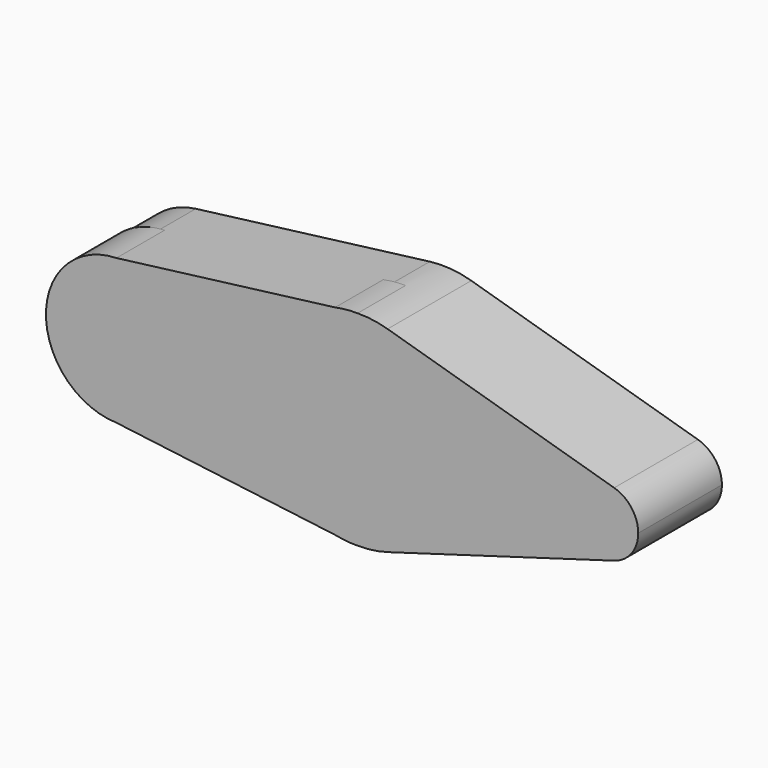
from build123d import *

# Parameters (mm, degrees)
F0_R     = 5.117058
F0_R_2   = 18.848799
F0_R_3   = 9.024126
F1_DEPTH = 30
F6_DEPTH = 10.785379
F2_R     = 20.800257
F2_R_2   = 29.342009
F2_R_3   = 9.581233
F3_DEPTH = 17.246447
F4_DEPTH = 0.934202


with BuildPart() as f1:
    # F0 (on Front) → F1 (new body)
    with BuildSketch(Plane.XZ):
        with BuildLine():
            ThreePointArc((8.222921, 28.166239), (23.475844, 17.602222), (29.342009, 0))
            ThreePointArc((29.342009, 0), (23.475844, -17.602222), (8.222921, -28.166239))
            Line((8.222921, -28.166239), (73.19784, -9.197302))
            ThreePointArc((73.19784, -9.197302), (60.931524, 0), (73.19784, 9.197302))
            Line((73.19784, 9.197302), (8.222921, 28.166239))
        make_face()
        with BuildLine():
            ThreePointArc((80.09399, 0), (78.178474, 5.747766), (73.19784, 9.197302))
            ThreePointArc((73.19784, 9.197302), (60.931524, 0), (73.19784, -9.197302))
            ThreePointArc((73.19784, -9.197302), (78.178474, -5.747766), (80.09399, 0))
        make_face()
        with Locations((70.512757, 0)):
            Circle(F0_R, mode=Mode.SUBTRACT)
        with Locations((70.512757, 0)):
            Circle(F0_R)
        with BuildLine():
            ThreePointArc((8.222921, -28.166239), (23.475844, -17.602222), (29.342009, 0))
            ThreePointArc((29.342009, 0), (23.475844, 17.602222), (8.222921, 28.166239))
            ThreePointArc((8.222921, 28.166239), (2.321575, 29.250022), (-3.676847, 29.110724))
            ThreePointArc((-3.676847, 29.110724), (-29.342009, 0), (-3.676847, -29.110724))
            ThreePointArc((-3.676847, -29.110724), (2.321575, -29.250022), (8.222921, -28.166239))
        make_face()
        Circle(F0_R_2, mode=Mode.SUBTRACT)
        Circle(F0_R_2)
        with BuildLine():
            ThreePointArc((-3.676847, -29.110724), (-29.342009, 0), (-3.676847, 29.110724))
            Line((-3.676847, 29.110724), (-70.771454, 20.636302))
            ThreePointArc((-70.771454, 20.636302), (-54.409335, 15.602342), (-47.364717, 0))
            ThreePointArc((-47.364717, 0), (-54.409335, -15.602342), (-70.771454, -20.636302))
            Line((-70.771454, -20.636302), (-3.676847, -29.110724))
        make_face()
        with BuildLine():
            ThreePointArc((-47.364717, 0), (-54.409335, 15.602342), (-70.771454, 20.636302))
            ThreePointArc((-70.771454, 20.636302), (-88.965232, 0), (-70.771454, -20.636302))
            ThreePointArc((-70.771454, -20.636302), (-54.409335, -15.602342), (-47.364717, 0))
        make_face()
        with Locations((-68.164974, 0)):
            Circle(F0_R_3, mode=Mode.SUBTRACT)
        with Locations((-68.164974, 0)):
            Circle(F0_R_3)
    extrude(amount=F1_DEPTH)

    # F0 (on Front) → F6 (cut)
    with BuildSketch(Plane.XZ):
        with Locations((-68.164974, 0)):
            Circle(F0_R_3)
        Circle(F0_R_2)
        with Locations((70.512757, 0)):
            Circle(F0_R)
    extrude(amount=F6_DEPTH, mode=Mode.SUBTRACT)

    # F2 (on offset) → F3 (join)
    with BuildSketch(Plane.XZ.offset(30)):
        with Locations((-68.947569, 0)):
            Circle(F2_R)
        with Locations((-0.782594, 0)):
            Circle(F2_R_2)
        with Locations((69.730163, 0)):
            Circle(F2_R_3)
    extrude(amount=-F3_DEPTH)

    # F0 (on Front) → F4 (cut)
    with BuildSketch(Plane.XZ):
        with BuildLine():
            ThreePointArc((-47.364717, 0), (-54.409335, 15.602342), (-70.771454, 20.636302))
            ThreePointArc((-70.771454, 20.636302), (-88.965232, 0), (-70.771454, -20.636302))
            ThreePointArc((-70.771454, -20.636302), (-54.409335, -15.602342), (-47.364717, 0))
        make_face()
        with Locations((-68.164974, 0)):
            Circle(F0_R_3, mode=Mode.SUBTRACT)
        with BuildLine():
            ThreePointArc((8.222921, -28.166239), (23.475844, -17.602222), (29.342009, 0))
            ThreePointArc((29.342009, 0), (23.475844, 17.602222), (8.222921, 28.166239))
            ThreePointArc((8.222921, 28.166239), (2.321575, 29.250022), (-3.676847, 29.110724))
            ThreePointArc((-3.676847, 29.110724), (-29.342009, 0), (-3.676847, -29.110724))
            ThreePointArc((-3.676847, -29.110724), (2.321575, -29.250022), (8.222921, -28.166239))
        make_face()
        Circle(F0_R_2, mode=Mode.SUBTRACT)
        with BuildLine():
            ThreePointArc((80.09399, 0), (78.178474, 5.747766), (73.19784, 9.197302))
            ThreePointArc((73.19784, 9.197302), (60.931524, 0), (73.19784, -9.197302))
            ThreePointArc((73.19784, -9.197302), (78.178474, -5.747766), (80.09399, 0))
        make_face()
        with Locations((70.512757, 0)):
            Circle(F0_R, mode=Mode.SUBTRACT)
    extrude(amount=-F4_DEPTH, mode=Mode.SUBTRACT)


solid = f1.part
